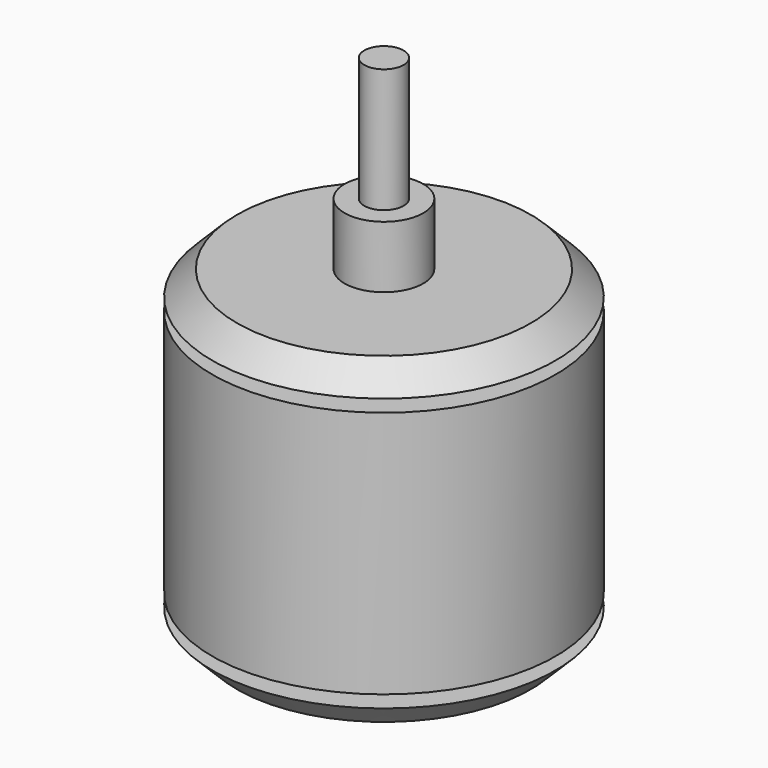
from build123d import *

# Parameters (mm, degrees)
F0_W   = 13.85
F0_H   = 20
F0_W_2 = 1.5875
F0_H_2 = 10


with BuildPart() as f1:
    # F0 (on Front) → F1 (revolve)
    with BuildSketch(Plane.XZ):
        Polygon((-11.85, 0), (0, 0), (0, 2), (-13.85, 2), align=None)
        with Locations((-6.925, 13)):
            Rectangle(F0_W, F0_H)
        Polygon((-13.85, 24), (0, 24), (0, 26), (-3.175, 26), (-11.85, 26), align=None)
        Polygon((-3.175, 26), (0, 26), (0, 31), (-1.5875, 31), (-3.175, 31), align=None)
        with Locations((-0.79375, 36)):
            Rectangle(F0_W_2, F0_H_2)
    revolve(axis=Axis((0, 0, 13), (0, 0, 1)))


solid = f1.part
